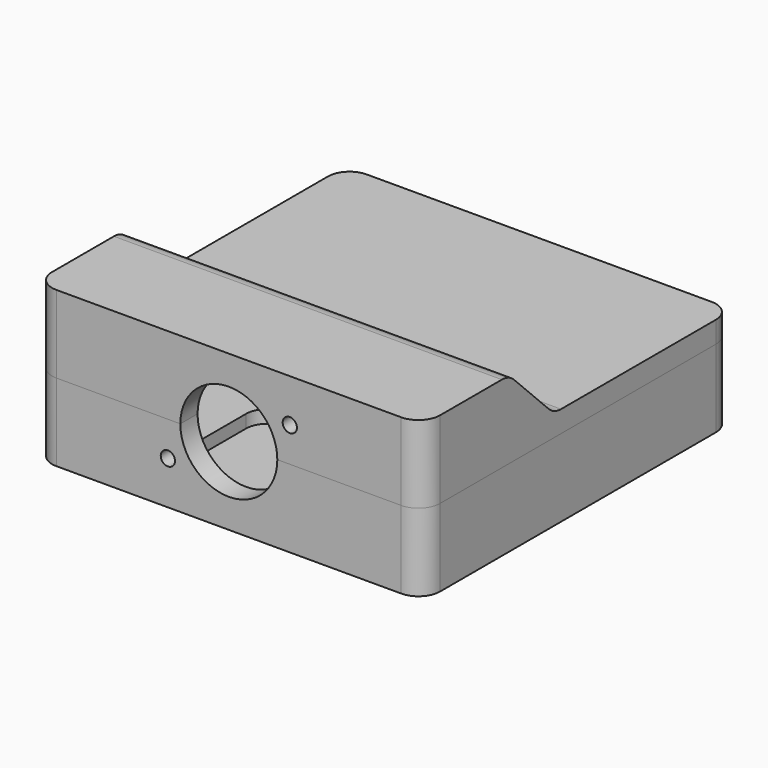
from build123d import *

# Parameters (mm, degrees)
F0_W        = 90
F0_H        = 18
F1_DEPTH    = 45
F3_DEPTH    = 45
F4_W        = 80
F4_H        = 80
F5_DEPTH    = 13
F6_W        = 40
F6_H        = 30
F7_DEPTH    = 3
F9_D        = 22.5
F9_DEPTH    = 5
F9_TIP      = 6.7596819641
F9_2_D      = 22.5
F9_2_DEPTH  = 5
F9_2_TIP    = 6.7596819641
F11_DEPTH   = 25
F12_R       = 5
F13_R       = 5
F13_2_R     = 5
F14_D       = 3.3
F14_DEPTH   = 5
F14_TIP     = 0.9914200214
F14_2_D     = 3.3
F14_2_DEPTH = 5
F14_2_TIP   = 0.9914200214
F15_R       = 5


with BuildPart() as f1:
    # F0 (on Right) → F1 (new body, symmetric)
    with BuildSketch(Plane.YZ):
        with Locations((0, -9)):
            Rectangle(F0_W, F0_H)
    extrude(amount=F1_DEPTH, both=True)

    # F4 (on face) → F5 (cut)
    with BuildSketch(Plane.XY):
        Rectangle(F4_W, F4_H)
    extrude(amount=-F5_DEPTH, mode=Mode.SUBTRACT)

    # F6 (on face) → F7 (cut)
    with BuildSketch(Plane.XY.offset(-13)):
        with Locations((0, -25)):
            Rectangle(F6_W, F6_H)
    extrude(amount=-F7_DEPTH, mode=Mode.SUBTRACT)

    # F9
    with Locations(Plane.XZ.offset(45)):
        with Locations((0, 0)):
            Hole(F9_D / 2, depth=F9_DEPTH)
            with Locations((0, 0, -(F9_DEPTH + F9_TIP / 2))):  # 118° drill point
                Cone(0, F9_D / 2, F9_TIP, mode=Mode.SUBTRACT)

    # F13#2
    f13_2_edges = [f1.edges().sort_by_distance(p)[0] for p in [
        (45, -45, -9),
        (45, 45, -9),
        (-45, 45, -9),
        (-45, -45, -9),
    ]]
    fillet(f13_2_edges, radius=F13_2_R)

    # F14
    with Locations(Plane.XZ.offset(45)):
        with Locations((-14.1443451598, -8), (14.1443451598, 8)):
            Hole(F14_D / 2, depth=F14_DEPTH)
            with Locations((0, 0, -(F14_DEPTH + F14_TIP / 2))):  # 118° drill point
                Cone(0, F14_D / 2, F14_TIP, mode=Mode.SUBTRACT)

    # F15
    f15_edges = [f1.edges().sort_by_distance(p)[0] for p in [
        (-40, 40, -6.5),
        (40, 40, -6.5),
        (-40, -40, -6.5),
        (40, -40, -6.5),
        (-20, -10, -14.5),
        (20, -10, -14.5),
        (20, -40, -14.5),
        (-20, -40, -14.5),
    ]]
    fillet(f15_edges, radius=F15_R)


with BuildPart() as f3:
    # F2 (on Right) → F3 (new body, symmetric)
    with BuildSketch(Plane.YZ):
        Polygon((-45, 18), (-45, 0), (45, 0), (45, 5), (-7, 5), (-20, 18), align=None)
    extrude(amount=F3_DEPTH, both=True)

    # F9#2
    with Locations(Plane.XZ.offset(45)):
        with Locations((0, 0)):
            Hole(F9_2_D / 2, depth=F9_2_DEPTH)
            with Locations((0, 0, -(F9_2_DEPTH + F9_2_TIP / 2))):  # 118° drill point
                Cone(0, F9_2_D / 2, F9_2_TIP, mode=Mode.SUBTRACT)

    # F10 (on Right) → F11 (cut, symmetric)
    with BuildSketch(Plane.YZ):
        Polygon((-40, 13), (-40, 0), (-9.0710678119, 0), (-22.0710678119, 13), align=None)
    extrude(amount=F11_DEPTH, both=True, mode=Mode.SUBTRACT)

    # F12
    f12_edges = [f3.edges().sort_by_distance(p)[0] for p in [
        (0, -20, 18),
        (0, -7, 5),
    ]]
    fillet(f12_edges, radius=F12_R)

    # F13
    f13_edges = [f3.edges().sort_by_distance(p)[0] for p in [
        (45, -45, 9),
        (45, 45, 2.5),
        (-45, 45, 2.5),
        (-45, -45, 9),
    ]]
    fillet(f13_edges, radius=F13_R)

    # F14#2
    with Locations(Plane.XZ.offset(45)):
        with Locations((-14.1443451598, -8), (14.1443451598, 8)):
            Hole(F14_2_D / 2, depth=F14_2_DEPTH)
            with Locations((0, 0, -(F14_2_DEPTH + F14_2_TIP / 2))):  # 118° drill point
                Cone(0, F14_2_D / 2, F14_2_TIP, mode=Mode.SUBTRACT)


solid = Compound([f1.part, f3.part])
